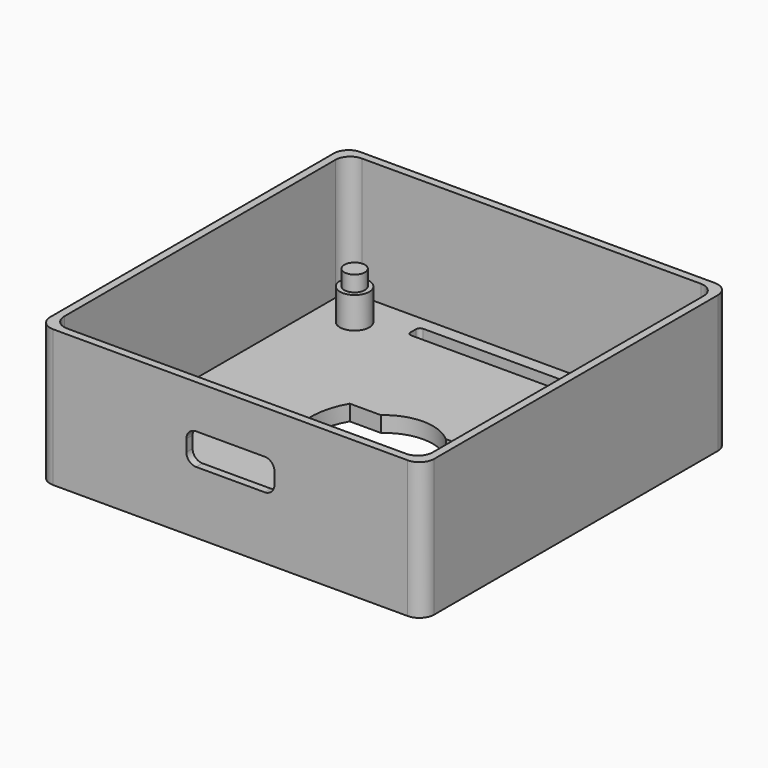
from build123d import *

# Parameters (mm, degrees)
PAD_DEPTH       = 14
POCKET_DEPTH    = 12.4
SKETCH002_R     = 1.5
PAD001_DEPTH    = 3.2
SKETCH003_R     = 1.05
PAD002_DEPTH    = 1.6
POCKET001_DEPTH = 0.8
POCKET003_DEPTH = 1.6
POCKET008_DEPTH = 1.6


with BuildPart() as part:
    # Sketch → Pad (new body)
    with BuildSketch(Plane.XY):
        with BuildLine():
            Line((-19.6, 18.1), (-19.6, -18.1))
            ThreePointArc((-19.6, -18.1), (-19.16066, -19.16066), (-18.1, -19.6))
            Line((-18.1, -19.6), (18.1, -19.6))
            ThreePointArc((18.1, -19.6), (19.16066, -19.16066), (19.6, -18.1))
            Line((19.6, -18.1), (19.6, 18.1))
            ThreePointArc((19.6, 18.1), (19.16066, 19.16066), (18.1, 19.6))
            Line((18.1, 19.6), (-18.1, 19.6))
            ThreePointArc((-18.1, 19.6), (-19.16066, 19.16066), (-19.6, 18.1))
        make_face()
    extrude(amount=PAD_DEPTH)

    # Sketch001 (on Face10 of Pad) → Pocket (cut)
    with BuildSketch(Plane.XY.offset(14)):
        with BuildLine():
            Line((-18.8, 17.3), (-18.8, -17.3))
            ThreePointArc((-18.8, -17.3), (-18.36066, -18.36066), (-17.3, -18.8))
            Line((-17.3, -18.8), (17.3, -18.8))
            ThreePointArc((17.3, -18.8), (18.36066, -18.36066), (18.8, -17.3))
            Line((18.8, -17.3), (18.8, 17.3))
            ThreePointArc((18.8, 17.3), (18.36066, 18.36066), (17.3, 18.8))
            Line((17.3, 18.8), (-17.3, 18.8))
            ThreePointArc((-17.3, 18.8), (-18.36066, 18.36066), (-18.8, 17.3))
        make_face()
    extrude(amount=-POCKET_DEPTH, mode=Mode.SUBTRACT)

    # Sketch002 (on Face19 of Pocket) → Pad001 (join)
    with BuildSketch(Plane.XY.offset(1.6)):
        with Locations((-15, 15)):
            Circle(SKETCH002_R)
        with Locations((15, 15)):
            Circle(SKETCH002_R)
        with Locations((-15, -15)):
            Circle(SKETCH002_R)
        with Locations((15, -15)):
            Circle(SKETCH002_R)
    extrude(amount=PAD001_DEPTH)

    # Sketch003 (on Face27 of Pad001) → Pad002 (join)
    with BuildSketch(Plane.XY.offset(4.8)):
        with Locations((-15, 15)):
            Circle(SKETCH003_R)
        with Locations((15, 15)):
            Circle(SKETCH003_R)
        with Locations((-15, -15)):
            Circle(SKETCH003_R)
        with Locations((15, -15)):
            Circle(SKETCH003_R)
    extrude(amount=PAD002_DEPTH)

    # Sketch004 (on Face7 of Pad002) → Pocket001 (cut)
    with BuildSketch(Plane.XZ.offset(19.6)):
        with BuildLine():
            Line((-4.5, 8.575), (-4.5, 7.375))
            ThreePointArc((-4.5, 7.375), (-4.207107, 6.667893), (-3.5, 6.375))
            Line((-3.5, 6.375), (3.5, 6.375))
            ThreePointArc((3.5, 6.375), (4.207107, 6.667893), (4.5, 7.375))
            Line((4.5, 7.375), (4.5, 8.575))
            ThreePointArc((4.5, 8.575), (4.207107, 9.282107), (3.5, 9.575))
            Line((3.5, 9.575), (-3.5, 9.575))
            ThreePointArc((-3.5, 9.575), (-4.207107, 9.282107), (-4.5, 8.575))
        make_face()
    extrude(amount=-POCKET001_DEPTH, mode=Mode.SUBTRACT)

    # Sketch009 (on Face4 of Pocket001) → Pocket003 (cut)
    with BuildSketch(Plane(origin=(0, 0, 0), x_dir=(1, 0, 0), z_dir=(0, 0, -1))):
        with BuildLine():
            Line((-6.495191, 3.75), (-3.307189, 3.75))
            ThreePointArc((3.307189, 3.75), (0, 5), (-3.307189, 3.75))
            Line((3.307189, 3.75), (6.495191, 3.75))
            ThreePointArc((6.495191, -3.75), (7.5, 0), (6.495191, 3.75))
            Line((3.307189, -3.75), (6.495191, -3.75))
            ThreePointArc((-3.307189, -3.75), (0, -5), (3.307189, -3.75))
            Line((-6.495191, -3.75), (-3.307189, -3.75))
            ThreePointArc((-6.495191, 3.75), (-7.5, 0), (-6.495191, -3.75))
        make_face()
    extrude(amount=-POCKET003_DEPTH, mode=Mode.SUBTRACT)

    # Sketch029 (on Face4 of Pocket003) → Pocket008 (cut)
    with BuildSketch(Plane(origin=(0, 0, 0), x_dir=(1, 0, 0), z_dir=(0, 0, -1))):
        with BuildLine():
            Line((-10, 17.5), (10, 17.5))
            ThreePointArc((10.4, 17.1), (10.282843, 17.382843), (10, 17.5))
            Line((10.4, 17.1), (10.4, 16.4))
            ThreePointArc((10, 16), (10.282843, 16.117157), (10.4, 16.4))
            Line((10, 16), (-10, 16))
            ThreePointArc((-10.4, 16.4), (-10.282843, 16.117157), (-10, 16))
            Line((-10.4, 16.4), (-10.4, 17.1))
            ThreePointArc((-10, 17.5), (-10.282843, 17.382843), (-10.4, 17.1))
        make_face()
        with BuildLine():
            Line((-10, -16), (10, -16))
            ThreePointArc((10.4, -16.4), (10.282843, -16.117157), (10, -16))
            Line((10.4, -16.4), (10.4, -17.1))
            ThreePointArc((10, -17.5), (10.282843, -17.382843), (10.4, -17.1))
            Line((10, -17.5), (-10, -17.5))
            ThreePointArc((-10.4, -17.1), (-10.282843, -17.382843), (-10, -17.5))
            Line((-10.4, -17.1), (-10.4, -16.4))
            ThreePointArc((-10, -16), (-10.282843, -16.117157), (-10.4, -16.4))
        make_face()
    extrude(amount=-POCKET008_DEPTH, mode=Mode.SUBTRACT)


with BuildPart() as part_1:
    # Body placement: moved
    add(part.part.moved(Location((0, 0, -0.8))))


solid = part_1.part
